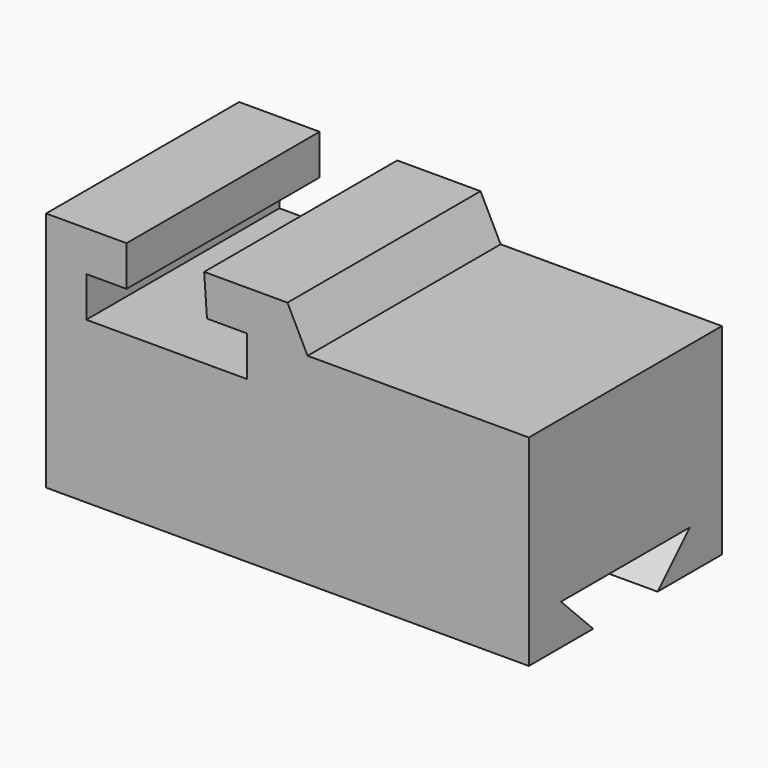
from build123d import *

# Parameters (mm, degrees)
F0_W     = 152.4
F0_H     = 76.2
F1_DEPTH = 76.2
F3_DEPTH = 76.2
F5_DEPTH = 152.4


with BuildPart() as f1:
    # F0 (on Front) → F1 (new body)
    with BuildSketch(Plane.XZ):
        with Locations((26.298277, -38.1)):
            Rectangle(F0_W, F0_H)
    extrude(amount=F1_DEPTH)

    # F2 (on face) → F3 (cut)
    with BuildSketch(Plane.XZ.offset(76.2)):
        Polygon((0, 0), (-24.501723, 0), (-24.501723, -12.7), (-37.201723, -12.7), (-37.201723, -25.4), (13.598277, -25.4), (13.598277, -12.7), (0.898277, -12.7), align=None)
        Polygon((32.648277, -12.7), (102.498277, -12.7), (102.498277, 0), (26.298277, 0), align=None)
    extrude(amount=-F3_DEPTH, mode=Mode.SUBTRACT)

    # F4 (on face) → F5 (cut, through all)
    with BuildSketch(Plane.YZ.offset(102.498277)):
        Polygon((-50.8, -76.2), (-25.4, -76.2), (-12.7, -63.5), (-63.5, -63.5), align=None)
    extrude(amount=-F5_DEPTH, mode=Mode.SUBTRACT)


solid = f1.part
